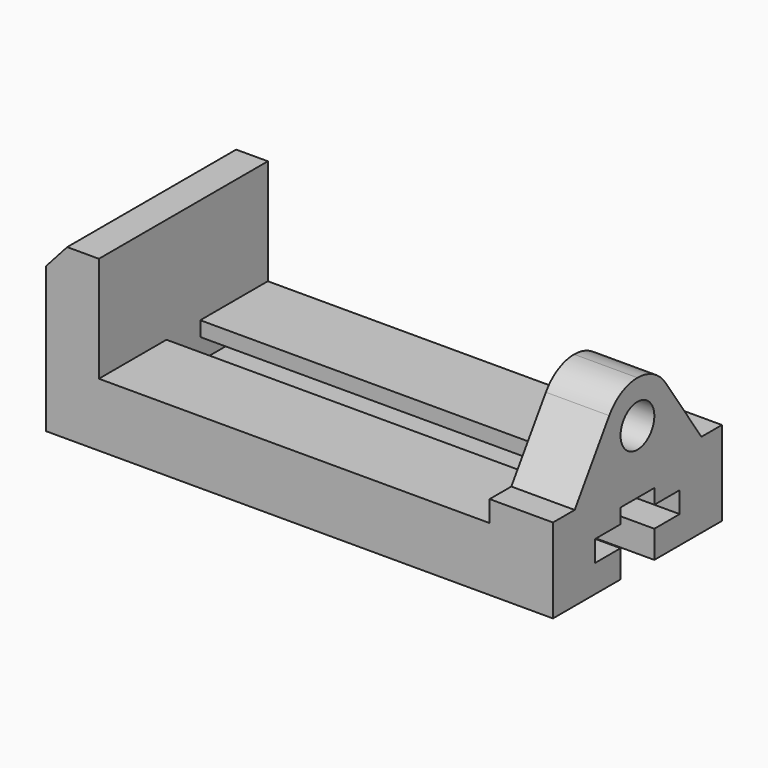
from build123d import *

# Parameters (mm, degrees)
F1_DEPTH = 63.5
F3_DEPTH = 38.1
F2_R     = 12.7
F4_DEPTH = 38.1
F5_DEPTH = 273.05


with BuildPart() as f1:
    # F0 (on Front) → F1 (new body, symmetric)
    with BuildSketch(Plane.XZ):
        Polygon((0, 87.400968), (0, 0), (304.8, 0), (304.8, 101.6), (266.7, 101.6), (266.7, 38.1), (31.75, 38.1), (31.75, 101.6), (12.7, 101.6), align=None)
    extrude(amount=F1_DEPTH, both=True)

    # F2 (on face) → F3 (cut)
    with BuildSketch(Plane.YZ.offset(304.8)):
        with BuildLine():
            Line((-63.5, 101.6), (-63.5, 50.8))
            Line((-63.5, 50.8), (-47.160853, 50.8))
            Line((-47.160853, 50.8), (-21.208122, 90.177681))
            ThreePointArc((-21.208122, 90.177681), (-12.044229, 98.562839), (0, 101.6))
            Line((0, 101.6), (-63.5, 101.6))
        make_face()
        with BuildLine():
            Line((63.5, 101.6), (0, 101.6))
            ThreePointArc((0, 101.6), (11.862834, 98.65959), (20.979086, 90.519147))
            Line((20.979086, 90.519147), (48.089147, 50.8))
            Line((48.089147, 50.8), (63.5, 50.8))
            Line((63.5, 50.8), (63.5, 101.6))
        make_face()
    extrude(amount=-F3_DEPTH, mode=Mode.SUBTRACT)

    # F2 (on face) → F4 (cut)
    with BuildSketch(Plane.YZ.offset(304.8)):
        with Locations((0, 76.2)):
            Circle(F2_R)
    extrude(amount=-F4_DEPTH, mode=Mode.SUBTRACT)

    # F2 (on face) → F5 (cut)
    with BuildSketch(Plane.YZ.offset(304.8)):
        Polygon((-12.7, 16.51), (-12.7, 0), (12.7, 0), (12.7, 16.51), (31.75, 16.51), (31.75, 29.21), (12.7, 29.21), (12.7, 38.1), (-12.7, 38.1), (-12.7, 29.21), (-31.75, 29.21), (-31.75, 16.51), align=None)
    extrude(amount=-F5_DEPTH, mode=Mode.SUBTRACT)


solid = f1.part
